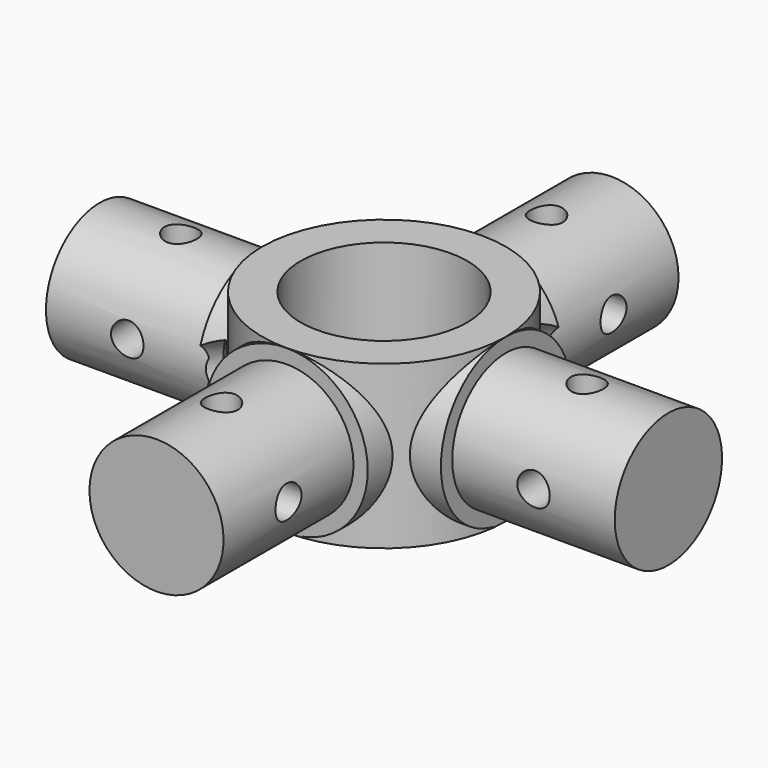
from build123d import *

# Parameters (mm, degrees)
CYLINDER010_R             = 5
CYLINDER010_DEPTH         = 10
CYLINDER011_R             = 5
CYLINDER011_DEPTH         = 10
CYLINDER009_R             = 2
CYLINDER009_DEPTH         = 30
FUSION002_PLACEMENT_ANGLE = 45
CYLINDER012_R             = 2
CYLINDER012_DEPTH         = 20
CYLINDER013_R             = 2
CYLINDER013_DEPTH         = 20
CYLINDER014_R             = 2
CYLINDER014_DEPTH         = 20
CYLINDER015_R             = 2
CYLINDER015_DEPTH         = 20
CYLINDER016_R             = 2
CYLINDER016_DEPTH         = 20
CYLINDER017_R             = 2
CYLINDER017_DEPTH         = 20
CYLINDER018_R             = 2
CYLINDER018_DEPTH         = 20
CYLINDER019_R             = 2
CYLINDER019_DEPTH         = 20
CYLINDER007_R             = 10.25
CYLINDER007_DEPTH         = 20
CYLINDER005_R             = 10
CYLINDER005_DEPTH         = 30
CYLINDER002_R             = 8.25
CYLINDER002_DEPTH         = 20
CYLINDER001_R             = 8.25
CYLINDER001_DEPTH         = 20
CYLINDER003_R             = 8.25
CYLINDER003_DEPTH         = 20
CYLINDER004_R             = 8.25
CYLINDER004_DEPTH         = 20
CYLINDER006_R             = 10
CYLINDER006_DEPTH         = 30
CYLINDER_R                = 15
CYLINDER_DEPTH            = 20


with BuildPart() as cylinder010:
    # Cylinder010 → Cylinder010 (new body)
    with BuildSketch(Plane(origin=(15, 0, 10), x_dir=(0, 0, -1), z_dir=(1, 0, 0))):
        Circle(CYLINDER010_R)
    extrude(amount=CYLINDER010_DEPTH)


with BuildPart() as cylinder011:
    # Cylinder011 → Cylinder011 (new body)
    with BuildSketch(Plane(origin=(-15, 0, 10), x_dir=(0, 0, 1), z_dir=(-1, 0, 0))):
        Circle(CYLINDER011_R)
    extrude(amount=CYLINDER011_DEPTH)


with BuildPart() as fusion002:
    # Cylinder009 → Cylinder009 (new body)
    with BuildSketch(Plane(origin=(-15, 0, 10), x_dir=(0, 0, -1), z_dir=(1, 0, 0))):
        Circle(CYLINDER009_R)
    extrude(amount=CYLINDER009_DEPTH)

    # Fusion002: union Cylinder010, Cylinder011
    add(cylinder010.part)
    add(cylinder011.part)


with BuildPart() as fusion002_1:
    # Fusion002 placement: moved
    add(fusion002.part.rotate(Axis((0, 0, 0), (0, 0, 1)), FUSION002_PLACEMENT_ANGLE))


with BuildPart() as cylinder012:
    # Cylinder012 → Cylinder012 (new body)
    with BuildSketch(Plane(origin=(-10, -25, 10), x_dir=(0, 0, -1), z_dir=(1, 0, 0))):
        Circle(CYLINDER012_R)
    extrude(amount=CYLINDER012_DEPTH)


with BuildPart() as cylinder013:
    # Cylinder013 → Cylinder013 (new body)
    with BuildSketch(Plane(origin=(0, -25, 0), x_dir=(1, 0, 0), z_dir=(0, 0, 1))):
        Circle(CYLINDER013_R)
    extrude(amount=CYLINDER013_DEPTH)


with BuildPart() as cylinder014:
    # Cylinder014 → Cylinder014 (new body)
    with BuildSketch(Plane(origin=(-25, 0, 0), x_dir=(1, 0, 0), z_dir=(0, 0, 1))):
        Circle(CYLINDER014_R)
    extrude(amount=CYLINDER014_DEPTH)


with BuildPart() as cylinder015:
    # Cylinder015 → Cylinder015 (new body)
    with BuildSketch(Plane(origin=(0, 25, 0), x_dir=(1, 0, 0), z_dir=(0, 0, 1))):
        Circle(CYLINDER015_R)
    extrude(amount=CYLINDER015_DEPTH)


with BuildPart() as cylinder016:
    # Cylinder016 → Cylinder016 (new body)
    with BuildSketch(Plane(origin=(25, 0, 0), x_dir=(1, 0, 0), z_dir=(0, 0, 1))):
        Circle(CYLINDER016_R)
    extrude(amount=CYLINDER016_DEPTH)


with BuildPart() as cylinder017:
    # Cylinder017 → Cylinder017 (new body)
    with BuildSketch(Plane(origin=(-10, 25, 10), x_dir=(0, 0, -1), z_dir=(1, 0, 0))):
        Circle(CYLINDER017_R)
    extrude(amount=CYLINDER017_DEPTH)


with BuildPart() as cylinder018:
    # Cylinder018 → Cylinder018 (new body)
    with BuildSketch(Plane(origin=(-25, -10, 10), x_dir=(0, 0, -1), z_dir=(0, 1, 0))):
        Circle(CYLINDER018_R)
    extrude(amount=CYLINDER018_DEPTH)


with BuildPart() as cylinder019:
    # Cylinder019 → Cylinder019 (new body)
    with BuildSketch(Plane(origin=(25, -10, 10), x_dir=(0, 0, -1), z_dir=(0, 1, 0))):
        Circle(CYLINDER019_R)
    extrude(amount=CYLINDER019_DEPTH)


with BuildPart() as negative_fusion:
    # Cylinder007 → Cylinder007 (new body)
    with BuildSketch(Plane.XY):
        Circle(CYLINDER007_R)
    extrude(amount=CYLINDER007_DEPTH)

    # Fusion001: union Fusion002, Cylinder012, Cylinder013, Cylinder014, Cylinder015, Cylinder016, Cylinder017, Cylinder018, Cylinder019
    add(fusion002_1.part)
    add(cylinder012.part)
    add(cylinder013.part)
    add(cylinder014.part)
    add(cylinder015.part)
    add(cylinder016.part)
    add(cylinder017.part)
    add(cylinder018.part)
    add(cylinder019.part)


with BuildPart() as cylinder005:
    # Cylinder005 → Cylinder005 (new body)
    with BuildSketch(Plane(origin=(-15, 0, 10), x_dir=(0, -1, 0), z_dir=(1, 0, 0))):
        Circle(CYLINDER005_R)
    extrude(amount=CYLINDER005_DEPTH)


with BuildPart() as cylinder002:
    # Cylinder002 → Cylinder002 (new body)
    with BuildSketch(Plane(origin=(0, 15, 10), x_dir=(1, 0, 0), z_dir=(0, 1, 0))):
        Circle(CYLINDER002_R)
    extrude(amount=CYLINDER002_DEPTH)


with BuildPart() as cylinder001:
    # Cylinder001 → Cylinder001 (new body)
    with BuildSketch(Plane(origin=(-15, 0, 10), x_dir=(0, 1, 0), z_dir=(-1, 0, 0))):
        Circle(CYLINDER001_R)
    extrude(amount=CYLINDER001_DEPTH)


with BuildPart() as cylinder003:
    # Cylinder003 → Cylinder003 (new body)
    with BuildSketch(Plane(origin=(15, 0, 10), x_dir=(0, -1, 0), z_dir=(1, 0, 0))):
        Circle(CYLINDER003_R)
    extrude(amount=CYLINDER003_DEPTH)


with BuildPart() as cylinder004:
    # Cylinder004 → Cylinder004 (new body)
    with BuildSketch(Plane(origin=(0, -15, 10), x_dir=(-1, 0, 0), z_dir=(0, -1, 0))):
        Circle(CYLINDER004_R)
    extrude(amount=CYLINDER004_DEPTH)


with BuildPart() as cylinder006:
    # Cylinder006 → Cylinder006 (new body)
    with BuildSketch(Plane(origin=(0, -15, 10), x_dir=(1, 0, 0), z_dir=(0, 1, 0))):
        Circle(CYLINDER006_R)
    extrude(amount=CYLINDER006_DEPTH)


with BuildPart() as cut:
    # Cylinder → Cylinder (new body)
    with BuildSketch(Plane.XY):
        Circle(CYLINDER_R)
    extrude(amount=CYLINDER_DEPTH)

    # Fusion: union Cylinder005, Cylinder002, Cylinder001, Cylinder003, Cylinder004, Cylinder006
    add(cylinder005.part)
    add(cylinder002.part)
    add(cylinder001.part)
    add(cylinder003.part)
    add(cylinder004.part)
    add(cylinder006.part)

    # Cut: cut Negative Fusion
    add(negative_fusion.part, mode=Mode.SUBTRACT)


solid = cut.part
